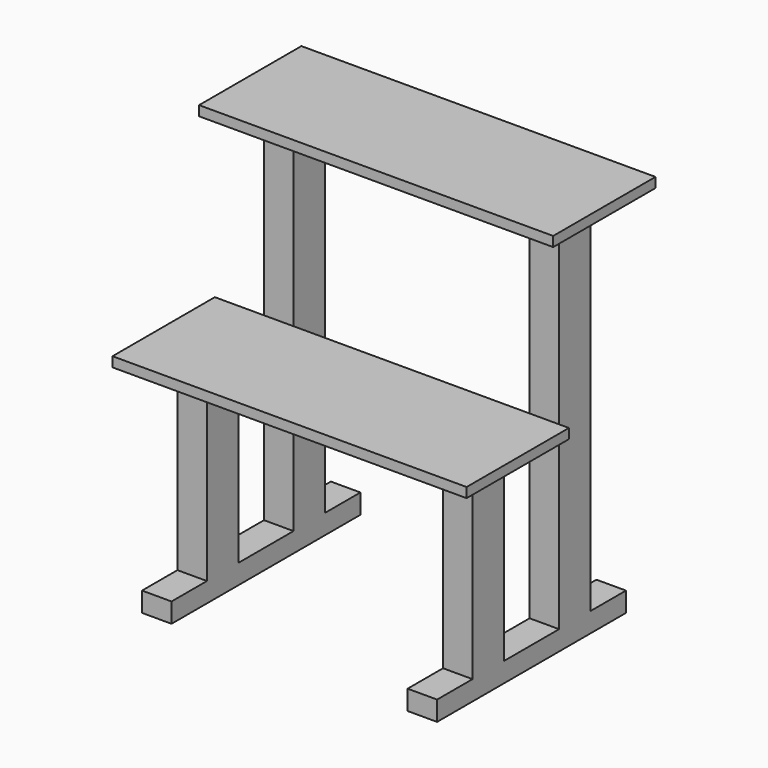
from build123d import *

# Parameters (mm, degrees)
F0_W      = 914.4
F0_H      = 609.6
F1_DEPTH  = 1016
F2_W      = 914.4
F2_H      = 279.4
F3_DEPTH  = 457.2
F4_W      = 76.2
F4_H      = 609.6
F4_W_2    = 609.6
F5_DEPTH  = 533.4
F6_W      = 25.4
F6_H      = 431.8
F7_DEPTH  = 914.4
F8_W      = 76.2
F8_H      = 25.4
F8_W_2    = 609.6
F9_DEPTH  = 279.4
F8_H_2    = 431.8
F10_DEPTH = 431.8
F11_DEPTH = 330.2
F12_W     = 114.3
F12_H     = 939.8
F13_DEPTH = 777.24
F12_H_2   = 482.6
F14_DEPTH = 878.84


with BuildPart() as f1:
    # F0 (on Top) → F1 (new body)
    with BuildSketch(Plane.XY):
        Rectangle(F0_W, F0_H)
    extrude(amount=F1_DEPTH)

    # F2 (on face) → F3 (cut)
    with BuildSketch(Plane.XY.offset(1016)):
        with Locations((0, -165.1)):
            Rectangle(F2_W, F2_H)
    extrude(amount=-F3_DEPTH, mode=Mode.SUBTRACT)

    # F4 (on face) → F5 (cut)
    with BuildSketch(Plane(origin=(0, 0, 0), x_dir=(1, 0, 0), z_dir=(0, 0, -1))):
        with Locations((-419.1, 0)):
            Rectangle(F4_W, F4_H)
        with Locations((419.1, 0)):
            Rectangle(F4_W, F4_H)
        Rectangle(F4_W_2, F4_H)
    extrude(amount=-F5_DEPTH, mode=Mode.SUBTRACT)

    # F6 (on face) → F7 (cut)
    with BuildSketch(Plane(origin=(-457.2, 0, 0), x_dir=(0, -1, 0), z_dir=(-1, 0, 0))):
        with Locations((12.7, 774.7)):
            Rectangle(F6_W, F6_H)
    extrude(amount=-F7_DEPTH, mode=Mode.SUBTRACT)

    # F8 (on face) → F9 (cut)
    with BuildSketch(Plane(origin=(0, 304.8, 0), x_dir=(-1, 0, 0), z_dir=(0, 1, 0))):
        with Locations((-419.1, 546.1)):
            Rectangle(F8_W, F8_H)
        with Locations((0, 546.1)):
            Rectangle(F8_W_2, F8_H)
        with Locations((419.1, 546.1)):
            Rectangle(F8_W, F8_H)
    extrude(amount=-F9_DEPTH, mode=Mode.SUBTRACT)

    # F8 (on face) → F10 (cut)
    with BuildSketch(Plane(origin=(0, 304.8, 0), x_dir=(-1, 0, 0), z_dir=(0, 1, 0))):
        with Locations((0, 774.7)):
            Rectangle(F8_W_2, F8_H_2)
    extrude(amount=-F10_DEPTH, mode=Mode.SUBTRACT)

    # F8 (on face) → F11 (cut)
    with BuildSketch(Plane(origin=(0, 304.8, 0), x_dir=(-1, 0, 0), z_dir=(0, 1, 0))):
        with Locations((-419.1, 774.7)):
            Rectangle(F8_W, F8_H_2)
        with Locations((419.1, 774.7)):
            Rectangle(F8_W, F8_H_2)
    extrude(amount=-F11_DEPTH, mode=Mode.SUBTRACT)

    # F12 (on face) → F13 (cut)
    with BuildSketch(Plane(origin=(-381, 0, 0), x_dir=(0, -1, 0), z_dir=(-1, 0, 0))):
        with Locations((-247.65, 520.7)):
            Rectangle(F12_W, F12_H)
    extrude(amount=-F13_DEPTH, mode=Mode.SUBTRACT)

    # F12 (on face) → F14 (cut)
    with BuildSketch(Plane(origin=(-381, 0, 0), x_dir=(0, -1, 0), z_dir=(-1, 0, 0))):
        Polygon((0, 990.6), (-88.9, 990.6), (-88.9, 558.8), (-25.4, 558.8), (0, 558.8), align=None)
        Polygon((-88.9, 558.8), (-88.9, 50.8), (-25.4, 50.8), (-25.4, 533.4), (-25.4, 558.8), align=None)
        with Locations((31.75, 292.1)):
            Rectangle(F12_W, F12_H_2)
        with Locations((247.65, 292.1)):
            Rectangle(F12_W, F12_H_2)
    extrude(amount=-F14_DEPTH, mode=Mode.SUBTRACT)


solid = f1.part
